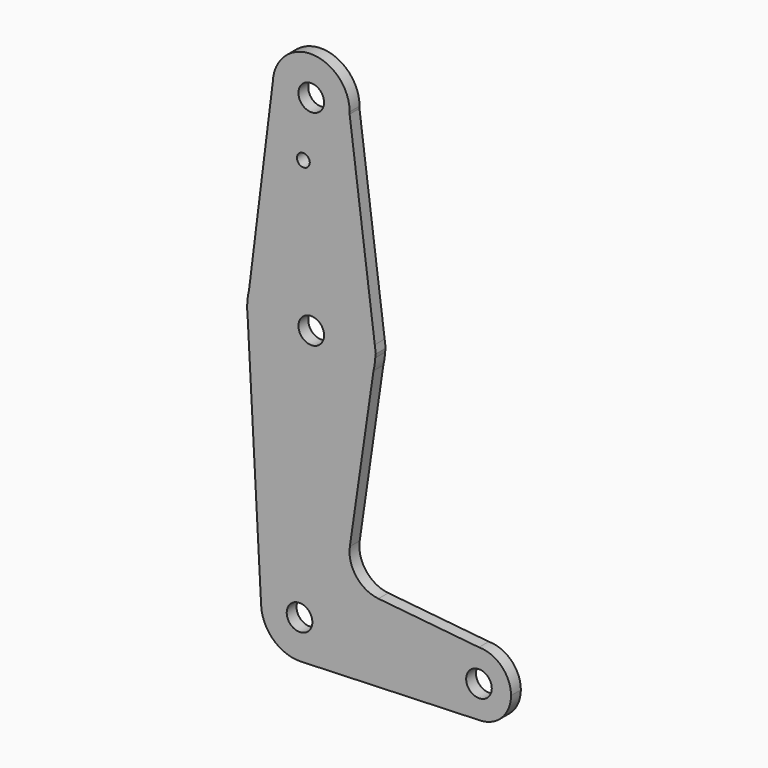
from build123d import *

# Parameters (mm, degrees)
F0_R     = 3.175
F0_R_2   = 1.5872946887
F1_DEPTH = 3.048


with BuildPart() as f1:
    # F0 (on Front) → F1 (new body)
    with BuildSketch(Plane.XZ):
        with BuildLine():
            ThreePointArc((-9.0974841174, 95.7674032941), (-9.0871801878, 96.0230192533), (-9.0837447185, 96.2788197363))
            ThreePointArc((-9.0837447185, 96.2788197363), (-18.4042625744, 105.801624578), (-28.124965097, 96.6876897734))
            ThreePointArc((-28.124965097, 96.6876897734), (-19.0688946406, 86.764941082), (-9.0974841174, 95.7674032941))
        make_face()
        with Locations((-18.6087447185, 96.2788197363)):
            Circle(F0_R, mode=Mode.SUBTRACT)
        with BuildLine():
            ThreePointArc((-9.0974841174, 95.7674032941), (-19.0688946406, 86.764941082), (-28.124965097, 96.6876897734))
            Line((-28.124965097, 96.6876897734), (-34.0306231002, 49.2433344929))
            ThreePointArc((-34.0306231002, 49.2433344929), (-17.7281897242, 61.3293971023), (-2.8642383786, 47.5125525358))
            Line((-2.8642383786, 47.5125525358), (-9.0974841174, 95.7674032941))
        make_face()
        with Locations((-20.5585247247, 82.0040197363)):
            Circle(F0_R_2, mode=Mode.SUBTRACT)
        with BuildLine():
            Line((-34.4828878032, 45.6099701438), (-34.0306231002, 49.2433344929))
            ThreePointArc((-34.0306231002, 49.2433344929), (-34.3618557694, 47.4397347289), (-34.4828878032, 45.6099701438))
        make_face()
        with BuildLine():
            ThreePointArc((-2.8642383786, 47.5125525358), (-17.7281897242, 61.3293971023), (-34.0306231002, 49.2433344929))
            Line((-34.0306231002, 49.2433344929), (-34.4828878032, 45.6099701438))
            Line((-34.4828878032, 45.6099701438), (-34.376407934, 43.6385798228))
            ThreePointArc((-34.376407934, 43.6385798228), (-19.5826293255, 29.6337397487), (-3.1846463922, 41.7208232156))
            Line((-3.1846463922, 41.7208232156), (-2.7533729136, 44.6833300781))
            ThreePointArc((-2.7533729136, 44.6833300781), (-2.7384161803, 45.0809499292), (-2.7334295582, 45.4788197363))
            ThreePointArc((-2.7334295582, 45.4788197363), (-2.7661655158, 46.4977873569), (-2.8642383786, 47.5125525358))
        make_face()
        with Locations((-18.6084295582, 45.4788197363)):
            Circle(F0_R, mode=Mode.SUBTRACT)
        with BuildLine():
            Line((-2.6184752397, 45.6099701438), (-2.8642383786, 47.5125525358))
            ThreePointArc((-2.8642383786, 47.5125525358), (-2.7661655158, 46.4977873569), (-2.7334295582, 45.4788197363))
            ThreePointArc((-2.7334295582, 45.4788197363), (-2.7384161803, 45.0809499292), (-2.7533729136, 44.6833300781))
            Line((-2.7533729136, 44.6833300781), (-2.6184752397, 45.6099701438))
        make_face()
        with BuildLine():
            Line((-34.376407934, 43.6385798228), (-34.4828878032, 45.6099701438))
            ThreePointArc((-34.4828878032, 45.6099701438), (-34.4603235704, 44.6226181096), (-34.376407934, 43.6385798228))
        make_face()
        with BuildLine():
            ThreePointArc((-3.1846463922, 41.7208232156), (-19.5826293255, 29.6337397487), (-34.376407934, 43.6385798228))
            Line((-34.376407934, 43.6385798228), (-31.0182580763, -18.5349012397))
            ThreePointArc((-31.0182580763, -18.5349012397), (-21.7640756728, -8.4996467927), (-11.9821216689, -18.0211802637))
            ThreePointArc((-11.9821216689, -18.0211802637), (-14.5569871682, -24.5343404354), (-20.8894718888, -27.5261333803))
            Line((-20.8894718888, -27.5261333803), (22.9428783311, -25.9586802637))
            ThreePointArc((22.9428783311, -25.9586802637), (15.0053783311, -18.0211802637), (22.9428783311, -10.0836802637))
            Line((22.9428783311, -10.0836802637), (-1.9724256736, -7.5720420447))
            ThreePointArc((-1.9724256736, -7.5720420447), (-7.4415456853, -4.5544233197), (-9.0423034299, 1.4833636188))
            Line((-9.0423034299, 1.4833636188), (-3.1846463922, 41.7208232156))
        make_face()
        with BuildLine():
            ThreePointArc((-3.1846463922, 41.7208232156), (-2.899019426, 43.191887665), (-2.7533729136, 44.6833300781))
            Line((-2.7533729136, 44.6833300781), (-3.1846463922, 41.7208232156))
        make_face()
        with BuildLine():
            ThreePointArc((-11.9821216689, -18.0211802637), (-21.7640756728, -8.4996467927), (-31.0182580763, -18.5349012397))
            ThreePointArc((-31.0182580763, -18.5349012397), (-28.0353179292, -24.957193426), (-21.4442641508, -27.5459728563))
            Line((-21.4442641508, -27.5459728563), (-20.8894718888, -27.5261333803))
            ThreePointArc((-20.8894718888, -27.5261333803), (-14.5569871682, -24.5343404354), (-11.9821216689, -18.0211802637))
        make_face()
        with Locations((-21.5071216689, -18.0211802637)):
            Circle(F0_R, mode=Mode.SUBTRACT)
        with BuildLine():
            Line((-20.8894718888, -27.5261333803), (-21.4442641508, -27.5459728563))
            ThreePointArc((-21.4442641508, -27.5459728563), (-21.1667234508, -27.540095856), (-20.8894718888, -27.5261333803))
        make_face()
        with BuildLine():
            ThreePointArc((30.8803783311, -18.0211802637), (28.5555384067, -12.408520188), (22.9428783311, -10.0836802637))
            ThreePointArc((22.9428783311, -10.0836802637), (15.0053783311, -18.0211802637), (22.9428783311, -25.9586802637))
            ThreePointArc((22.9428783311, -25.9586802637), (28.5555384067, -23.6338403394), (30.8803783311, -18.0211802637))
        make_face()
        with Locations((22.9428783311, -18.0211802637)):
            Circle(F0_R, mode=Mode.SUBTRACT)
    extrude(amount=F1_DEPTH)


solid = f1.part
